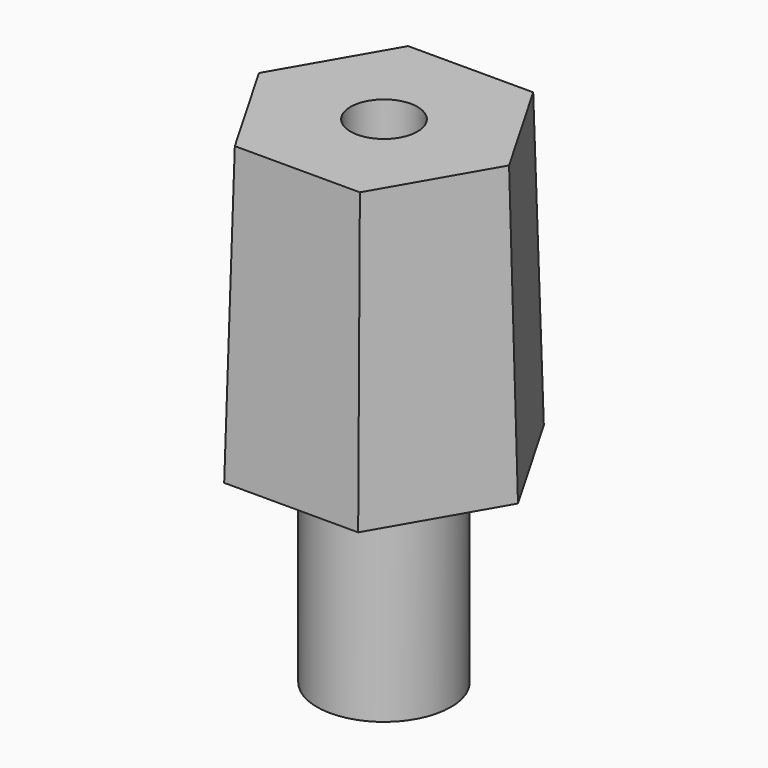
from build123d import *

# Parameters (mm, degrees)
PAD004_DEPTH  = 22
PAD004_TAPER  = 1.5
SKETCH010_R   = 2.5
HOLE_DEPTH    = 69.506788
SKETCH011_R   = 5
PAD005_DEPTH  = 15
HOLE001_DEPTH = 25


with BuildPart() as part:
    # Sketch009 → Pad004 (new body)
    with BuildSketch(Plane.XY):
        Polygon((10, 0), (5, 8.660254), (-5, 8.660254), (-10, 0), (-5, -8.660254), (5, -8.660254), align=None)
    extrude(amount=PAD004_DEPTH, taper=PAD004_TAPER)

    # Sketch010 → Hole (cut)
    with BuildSketch(Plane.XY):
        Circle(SKETCH010_R)
    extrude(amount=HOLE_DEPTH, mode=Mode.SUBTRACT)

    # Sketch011 → Pad005 (join)
    with BuildSketch(Plane.XY):
        Circle(SKETCH011_R)
    extrude(amount=-PAD005_DEPTH)

    # Sketch010 → Hole001 (cut)
    with BuildSketch(Plane.XY):
        Circle(SKETCH010_R)
    extrude(amount=-HOLE001_DEPTH, mode=Mode.SUBTRACT)


with BuildPart() as part_1:
    # Body005 placement: moved
    add(part.part.moved(Location((0, 31.5, 21.4))))


solid = part_1.part
